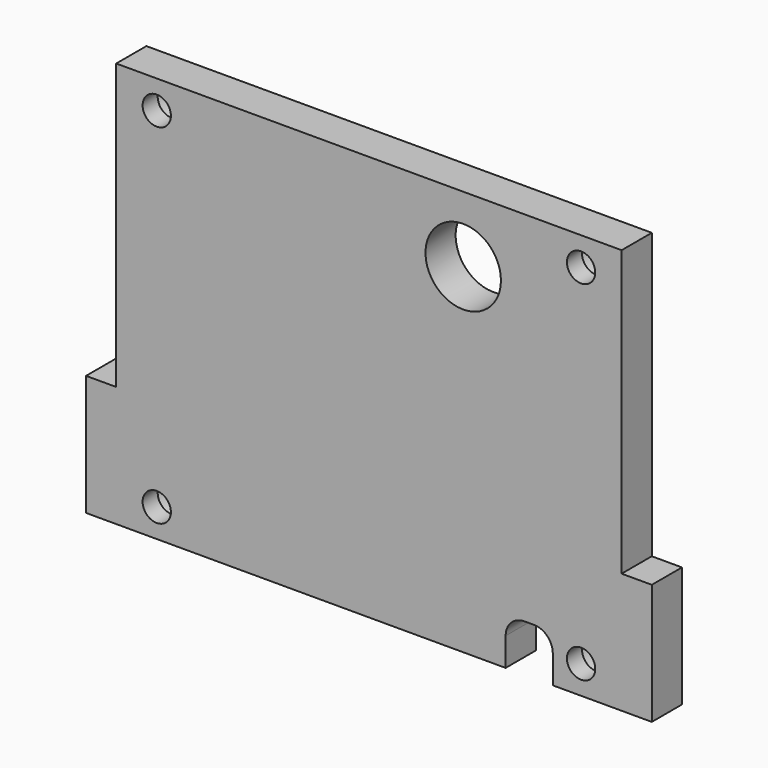
from build123d import *

# Parameters (mm, degrees)
SKETCH075_R     = 1.5
PAD050_DEPTH    = 4
SKETCH076_R     = 2.5
POCKET033_DEPTH = 2
SKETCH077_W     = 5
SKETCH077_H     = 4
POCKET034_DEPTH = 5
FILLET024_R     = 2
FILLET025_R     = 2
SKETCH078_R     = 4
POCKET035_DEPTH = 4


with BuildPart() as part:
    # Sketch075 (on CopyDatumPlane) → Pad050 (new body)
    with BuildSketch(Plane(origin=(0, 20, 0), x_dir=(1, 0, 0), z_dir=(0, 1, 0))):
        Polygon((-30, 28), (30, 28), (30, 15.2), (26.8, 15.2), (26.8, -15), (-26.8, -15), (-26.8, 15.2), (-30, 15.2), align=None)
        with Locations((-22.5, 25)):
            Circle(SKETCH075_R, mode=Mode.SUBTRACT)
        with Locations((22.5, 25)):
            Circle(SKETCH075_R, mode=Mode.SUBTRACT)
        with Locations((22.5, -12)):
            Circle(SKETCH075_R, mode=Mode.SUBTRACT)
        with Locations((-22.5, -12)):
            Circle(SKETCH075_R, mode=Mode.SUBTRACT)
    extrude(amount=PAD050_DEPTH)

    # Sketch076 (on Face14 of Pad050) → Pocket033 (cut)
    with BuildSketch(Plane(origin=(0, 24, 0), x_dir=(1, 0, 0), z_dir=(0, 1, 0))):
        with Locations((-22.5, 25)):
            Circle(SKETCH076_R)
        with Locations((22.5, 25)):
            Circle(SKETCH076_R)
        with Locations((22.5, -12)):
            Circle(SKETCH076_R)
        with Locations((-22.5, -12)):
            Circle(SKETCH076_R)
    extrude(amount=-POCKET033_DEPTH, mode=Mode.SUBTRACT)

    # Sketch077 (on Face1 of Pocket033) → Pocket034 (cut)
    with BuildSketch(Plane(origin=(0, 20, -28), x_dir=(-1, 0, 0), z_dir=(0, 0, -1))):
        with Locations((-17, 2)):
            Rectangle(SKETCH077_W, SKETCH077_H)
    extrude(amount=-POCKET034_DEPTH, mode=Mode.SUBTRACT)

    # Fillet024
    fillet024_edges = [part.edges().sort_by_distance(p)[0] for p in [
        (19.5, 22, -23),
    ]]
    fillet(fillet024_edges, radius=FILLET024_R)

    # Fillet025
    fillet025_edges = [part.edges().sort_by_distance(p)[0] for p in [
        (14.5, 22, -23),
    ]]
    fillet(fillet025_edges, radius=FILLET025_R)

    # Sketch078 (on Face20 of Fillet025) → Pocket035 (cut)
    with BuildSketch(Plane(origin=(0, 24, 0), x_dir=(1, 0, 0), z_dir=(0, 1, 0))):
        with Locations((10, -8)):
            Circle(SKETCH078_R)
    extrude(amount=-POCKET035_DEPTH, mode=Mode.SUBTRACT)


solid = part.part
